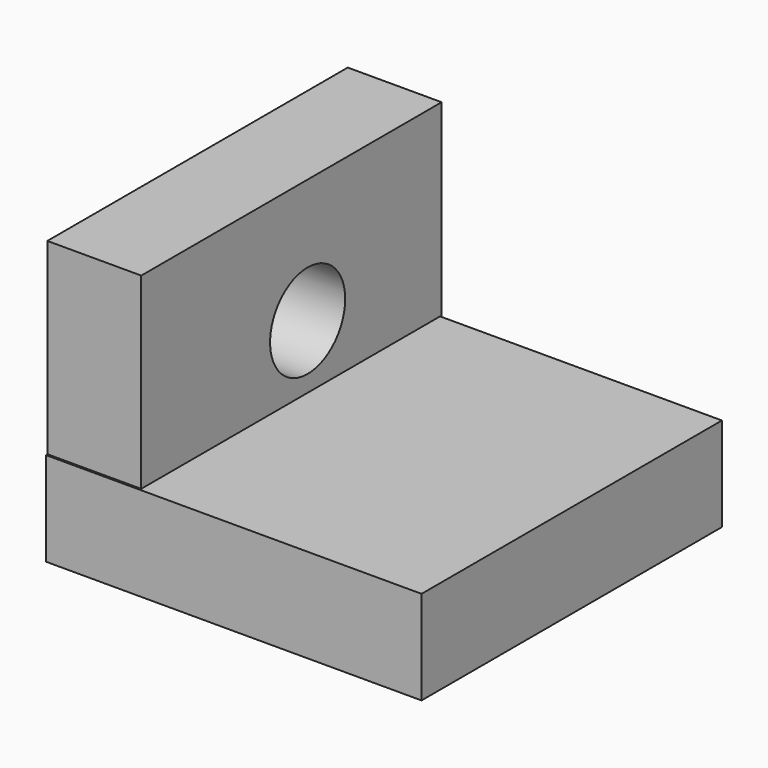
from build123d import *

# Parameters (mm, degrees)
F0_W     = 50.8
F0_H     = 50.8
F1_DEPTH = 12.7
F2_W     = 12.7
F2_H     = 50.8
F3_DEPTH = 38.1
F5_D     = 12.7


with BuildPart() as f1:
    # F0 (on Top) → F1 (new body)
    with BuildSketch(Plane.XY):
        with Locations((0.405492, -2.999011)):
            Rectangle(F0_W, F0_H)
    extrude(amount=F1_DEPTH)

    # F2 (on Top) → F3 (join)
    with BuildSketch(Plane.XY):
        with Locations((-18.677441, -2.73966)):
            Rectangle(F2_W, F2_H)
    extrude(amount=F3_DEPTH)

    # F5 (through all)
    with Locations(Plane(origin=(-25.027441, 0, 0), x_dir=(0, -1, 0), z_dir=(-1, 0, 0))):
        with Locations((0, 21.290614)):
            Hole(F5_D / 2)


solid = f1.part
